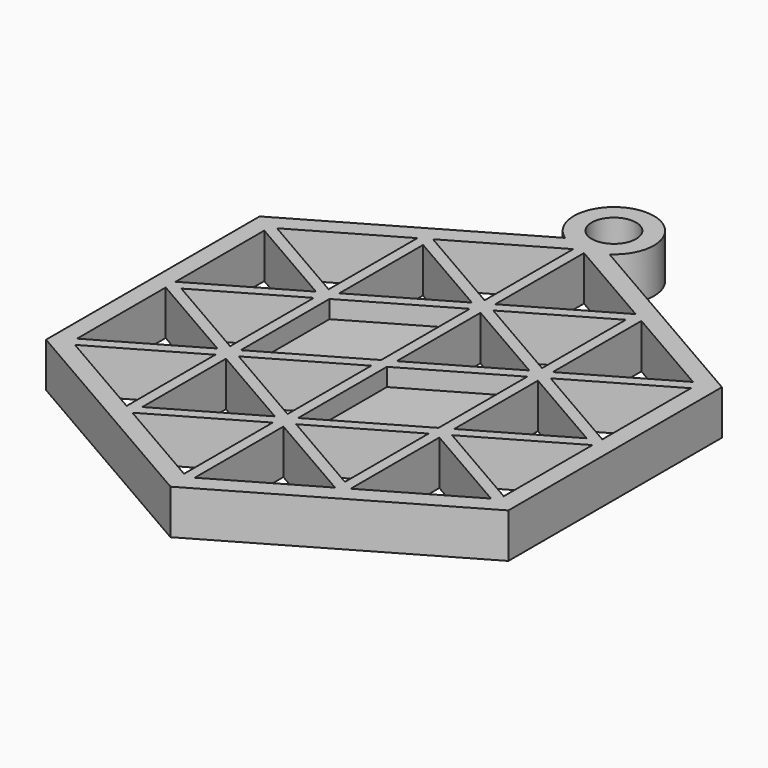
from build123d import *

# Parameters (mm, degrees)
F0_R     = 2.5
F1_DEPTH = 5
F3_DEPTH = 3


with BuildPart() as f1:
    # F0 (on Top) → F1 (new body)
    with BuildSketch(Plane.XY):
        with BuildLine():
            Line((25.980762, 15), (2.497352, 28.558153))
            ThreePointArc((2.497352, 28.558153), (0, 36.801579), (-2.497352, 28.558153))
            Line((-2.497352, 28.558153), (-25.980762, 15))
            Line((-25.980762, 15), (-25.980762, -15))
            Line((-25.980762, -15), (0, -30))
            Line((0, -30), (25.980762, -15))
            Line((25.980762, -15), (25.980762, 15))
        make_face()
        Polygon((-12.590381, -7.96188), (-12.590381, -20.421539), (-23.380762, -14.19171), align=None, mode=Mode.SUBTRACT)
        Polygon((-0.6, -14.88453), (-0.6, -27.344189), (-11.390381, -21.114359), align=None, mode=Mode.SUBTRACT)
        Polygon((-1.2, -13.845299), (-11.390381, -19.728719), (-11.390381, -7.96188), align=None, mode=Mode.SUBTRACT)
        Polygon((-13.190381, -6.92265), (-23.980762, -13.152479), (-23.980762, -0.69282), align=None, mode=Mode.SUBTRACT)
        Polygon((-12.590381, -5.883419), (-22.780762, 0), (-12.590381, 5.883419), align=None, mode=Mode.SUBTRACT)
        Polygon((-0.6, -1.03923), (-0.6, -12.806069), (-10.790381, -6.92265), align=None, mode=Mode.SUBTRACT)
        Polygon((0.6, -14.88453), (11.390381, -21.114359), (0.6, -27.344189), align=None, mode=Mode.SUBTRACT)
        Polygon((11.390381, -7.96188), (11.390381, -19.728719), (1.2, -13.845299), align=None, mode=Mode.SUBTRACT)
        Polygon((12.590381, -7.96188), (23.380762, -14.19171), (12.590381, -20.421539), align=None, mode=Mode.SUBTRACT)
        Polygon((0.6, -12.806069), (0.6, -0.34641), (11.390381, 5.883419), (11.390381, -6.57624), align=None, mode=Mode.SUBTRACT)
        Polygon((13.190381, -6.92265), (23.980762, -0.69282), (23.980762, -13.152479), align=None, mode=Mode.SUBTRACT)
        Polygon((12.590381, 5.883419), (22.780762, 0), (12.590381, -5.883419), align=None, mode=Mode.SUBTRACT)
        Polygon((-13.190381, 6.92265), (-23.980762, 0.69282), (-23.980762, 13.152479), align=None, mode=Mode.SUBTRACT)
        Polygon((-12.590381, 7.96188), (-23.380762, 14.19171), (-12.590381, 20.421539), align=None, mode=Mode.SUBTRACT)
        Polygon((-0.6, 12.806069), (-0.6, 0.34641), (-11.390381, -5.883419), (-11.390381, 6.57624), align=None, mode=Mode.SUBTRACT)
        Polygon((-11.390381, 19.728719), (-1.2, 13.845299), (-11.390381, 7.96188), align=None, mode=Mode.SUBTRACT)
        Polygon((-0.6, 14.88453), (-11.390381, 21.114359), (-0.6, 27.344189), align=None, mode=Mode.SUBTRACT)
        Polygon((0.6, 12.806069), (10.790381, 6.92265), (0.6, 1.03923), align=None, mode=Mode.SUBTRACT)
        Polygon((11.390381, 19.728719), (11.390381, 7.96188), (1.2, 13.845299), align=None, mode=Mode.SUBTRACT)
        Polygon((13.190381, 6.92265), (23.980762, 13.152479), (23.980762, 0.69282), align=None, mode=Mode.SUBTRACT)
        Polygon((12.590381, 7.96188), (12.590381, 20.421539), (23.380762, 14.19171), align=None, mode=Mode.SUBTRACT)
        Polygon((0.6, 14.88453), (0.6, 27.344189), (11.390381, 21.114359), align=None, mode=Mode.SUBTRACT)
        with Locations((0, 32.301579)):
            Circle(F0_R, mode=Mode.SUBTRACT)
    extrude(amount=F1_DEPTH)

    # F2 (on face) → F3 (join)
    with BuildSketch(Plane(origin=(0, 0, 0), x_dir=(1, 0, 0), z_dir=(0, 0, -1))):
        Polygon((-11.390381, -6.57624), (-0.6, -12.806069), (-0.6, -0.34641), (-11.390381, 5.883419), align=None)
        Polygon((0.6, 0.34641), (11.390381, -5.883419), (11.390381, 6.57624), (0.6, 12.806069), align=None)
    extrude(amount=-F3_DEPTH)


solid = f1.part
